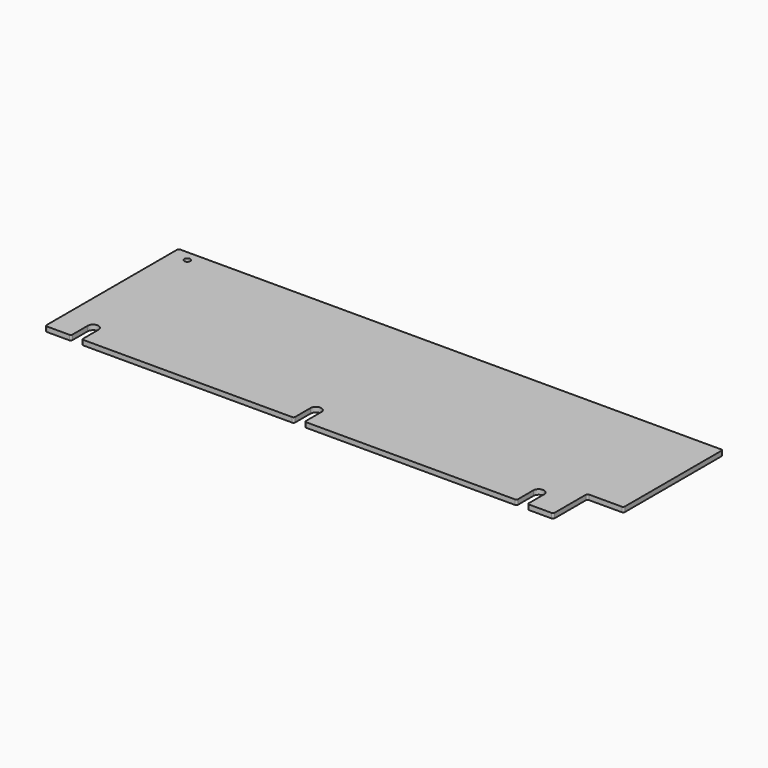
from build123d import *

# Parameters (mm, degrees)
SKETCH_R  = 1.8288
PAD_DEPTH = 3


with BuildPart() as part:
    # Sketch → Pad (new body)
    with BuildSketch(Plane.XY):
        with BuildLine():
            Line((0, 100.6), (0, 1))
            ThreePointArc((0, 1), (0.292893, 0.292893), (1, 0))
            Line((1, 0), (14.748, 0))
            ThreePointArc((14.748, 0), (15.455107, 0.292893), (15.748, 1))
            Line((15.748, 12.7), (15.748, 1))
            ThreePointArc((22.352, 12.7), (19.05, 16.002), (15.748, 12.7))
            Line((22.352, 12.7), (22.352, 1))
            ThreePointArc((22.352, 1), (22.644893, 0.292893), (23.352, 0))
            Line((23.352, 0), (150.6479, 0))
            ThreePointArc((150.6479, 0), (151.355007, 0.292893), (151.6479, 1))
            Line((151.6479, 12.7), (151.6479, 1))
            ThreePointArc((158.2519, 12.7), (154.9499, 16.002), (151.6479, 12.7))
            Line((158.2519, 12.7), (158.2519, 1))
            ThreePointArc((158.2519, 1), (158.544793, 0.292893), (159.2519, 0))
            Line((159.2519, 0), (286.5478, 0))
            ThreePointArc((286.5478, 0), (287.254907, 0.292893), (287.5478, 1))
            Line((287.5478, 12.7), (287.5478, 1))
            ThreePointArc((294.1518, 12.7), (290.8498, 16.002), (287.5478, 12.7))
            Line((294.1518, 12.7), (294.1518, 1))
            ThreePointArc((294.1518, 1), (294.444693, 0.292893), (295.1518, 0))
            Line((295.1518, 0), (308.8998, 0))
            ThreePointArc((308.8998, 0), (309.606907, 0.292893), (309.8998, 1))
            Line((309.8998, 1), (309.8998, 24.9))
            ThreePointArc((310.8998, 25.9), (310.192693, 25.607107), (309.8998, 24.9))
            Line((310.8998, 25.9), (330.9999, 25.9))
            ThreePointArc((330.9999, 25.9), (331.707007, 26.192893), (331.9999, 26.9))
            Line((331.9999, 26.9), (331.9999, 100.6))
            ThreePointArc((331.9999, 100.6), (331.707007, 101.307107), (330.9999, 101.6))
            Line((330.9999, 101.6), (1, 101.6))
            ThreePointArc((1, 101.6), (0.292893, 101.307107), (0, 100.6))
        make_face()
        with Locations((10.46, 95.25)):
            Circle(SKETCH_R, mode=Mode.SUBTRACT)
    extrude(amount=PAD_DEPTH)


solid = part.part
